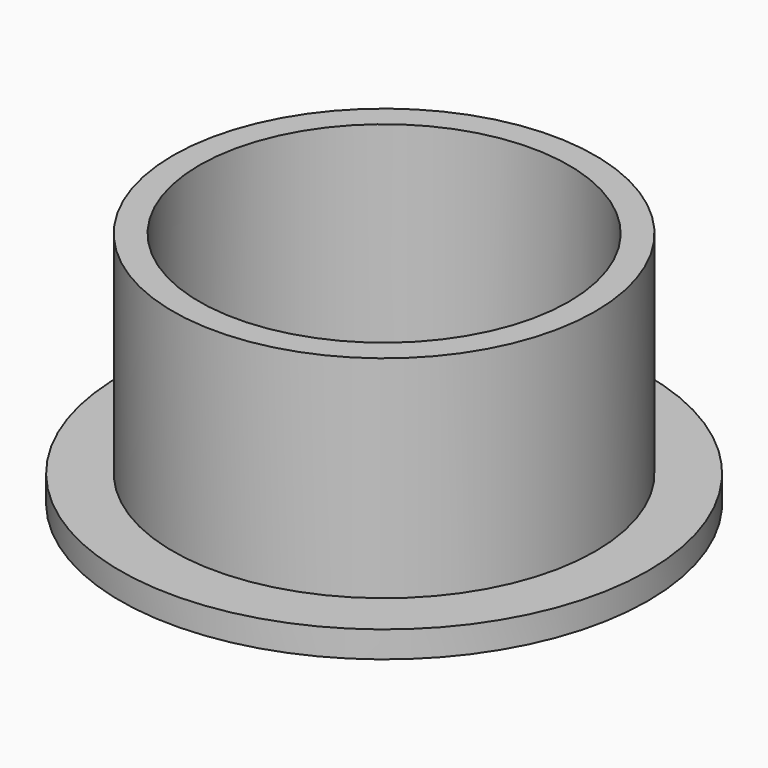
from build123d import *

# Parameters (mm, degrees)
F0_R     = 22.225005281
F0_R_2   = 2.0955
F0_R_3   = 4.064
F1_DEPTH = 3.175
F0_R_4   = 31.75
F0_R_5   = 25.400005281
F2_DEPTH = 28.575


with BuildPart() as f1:
    # F0 (on Top) → F1 (new body)
    with BuildSketch(Plane.XY):
        with Locations((-126.6650405397, 32.560210675)):
            Circle(F0_R)
        with Locations((-126.6650405397, 24.559210675)):
            Circle(F0_R_2, mode=Mode.SUBTRACT)
        with Locations((-134.6660405397, 32.560210675)):
            Circle(F0_R_2, mode=Mode.SUBTRACT)
        with Locations((-126.6650405397, 32.560210675)):
            Circle(F0_R_3, mode=Mode.SUBTRACT)
        with Locations((-118.6640405397, 32.560210675)):
            Circle(F0_R_2, mode=Mode.SUBTRACT)
        with Locations((-126.6650405397, 40.561210675)):
            Circle(F0_R_2, mode=Mode.SUBTRACT)
    extrude(amount=F1_DEPTH)


with BuildPart() as f1b:
    # F0 (on Top) → F1, piece 2 (new body)
    with BuildSketch(Plane.XY):
        with Locations((-126.6650405397, 32.560210675)):
            Circle(F0_R_4)
        with Locations((-126.6650405397, 32.560210675)):
            Circle(F0_R_5, mode=Mode.SUBTRACT)
    extrude(amount=F1_DEPTH)


with BuildPart() as f2:
    # F0 (on Top) → F2 (new body)
    with BuildSketch(Plane.XY):
        with Locations((-126.6650405397, 32.560210675)):
            Circle(F0_R_5)
        with Locations((-126.6650405397, 32.560210675)):
            Circle(F0_R, mode=Mode.SUBTRACT)
    extrude(amount=F2_DEPTH)


solid = Compound([f1.part, f1b.part, f2.part])
